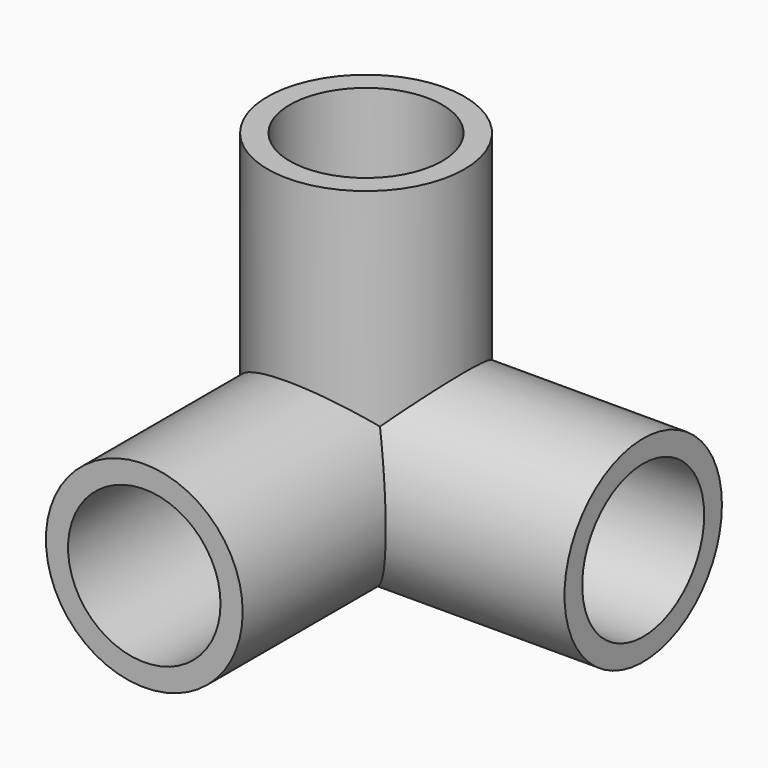
from build123d import *

# Parameters (mm, degrees)
F2_R     = 7.1
F2_R_2   = 5.5
F3_DEPTH = 20
F1_R     = 7.1
F1_R_2   = 5.5
F4_DEPTH = 20
F0_R     = 7.1
F0_R_2   = 5.5
F5_DEPTH = 20


with BuildPart() as f3:
    # F2 (on Right) → F3 (new body)
    with BuildSketch(Plane.YZ):
        Circle(F2_R)
        Circle(F2_R_2, mode=Mode.SUBTRACT)
    extrude(amount=F3_DEPTH)

    # F1 (on Front) → F4 (join)
    with BuildSketch(Plane.XZ):
        Circle(F1_R)
        Circle(F1_R_2, mode=Mode.SUBTRACT)
    extrude(amount=F4_DEPTH)

    # F0 (on Top) → F5 (join)
    with BuildSketch(Plane.XY):
        Circle(F0_R)
        Circle(F0_R_2, mode=Mode.SUBTRACT)
    extrude(amount=F5_DEPTH)


solid = f3.part
